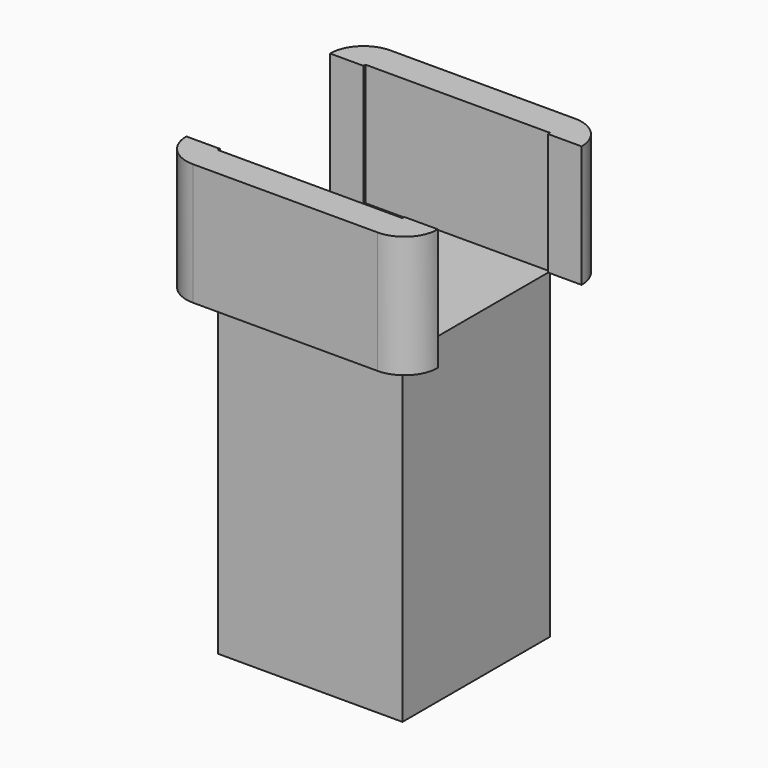
from build123d import *

# Parameters (mm, degrees)
F0_W      = 35
F0_H      = 35
F1_DEPTH  = 60.96
F2_W      = 35
F2_H      = 35
F3_DEPTH  = 23.114
F3_FACE_W = 34.050028
F3_FACE_H = 23.114
F4_DEPTH  = 64.516


with BuildPart() as f1:
    # F0 (on Top) → F1 (new body)
    with BuildSketch(Plane.XY):
        Rectangle(F0_W, F0_H)
    extrude(amount=F1_DEPTH)


with BuildPart() as f3:
    # F2 (on face) → F3 (new body)
    with BuildSketch(Plane.XY.offset(60.96)):
        with BuildLine():
            Line((17.490189, 23.375014), (-17.490189, 23.375014))
            ThreePointArc((-17.490189, 23.375014), (-21.980317, 21.515142), (-23.840189, 17.025014))
            Line((-23.840189, 17.025014), (-23.840189, -17.025014))
            ThreePointArc((-23.840189, -17.025014), (-21.980317, -21.515142), (-17.490189, -23.375014))
            Line((-17.490189, -23.375014), (17.490189, -23.375014))
            ThreePointArc((17.490189, -23.375014), (21.980317, -21.515142), (23.840189, -17.025014))
            Line((23.840189, -17.025014), (23.840189, 17.025014))
            ThreePointArc((23.840189, 17.025014), (21.980317, 21.515142), (17.490189, 23.375014))
        make_face()
        Rectangle(F2_W, F2_H, mode=Mode.SUBTRACT)
    extrude(amount=F3_DEPTH)

    # F3_face (on face) → F4 (cut)
    with BuildSketch(Plane(origin=(23.840189, 0, 72.517), x_dir=(0, 1, 0), z_dir=(1, 0, 0))):
        Rectangle(F3_FACE_W, F3_FACE_H)
    extrude(amount=-F4_DEPTH, mode=Mode.SUBTRACT)


solid = Compound([f1.part, f3.part])
